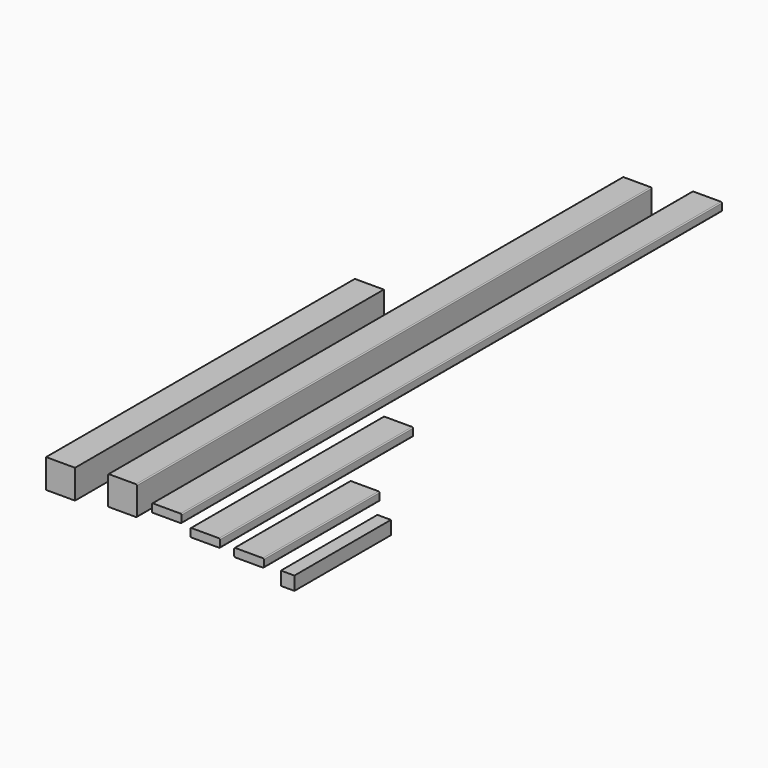
from build123d import *

# Parameters (mm, degrees)
F0_W      = 92
F0_H      = 26
F1_DEPTH  = 450
F2_R      = 3
F3_R      = 3
F4_W      = 92
F4_H      = 26
F5_DEPTH  = 750
F6_R      = 3
F7_W      = 92
F7_H      = 26
F8_DEPTH  = 2100
F9_R      = 3
F10_W     = 42
F10_H     = 42
F11_DEPTH = 375
F12_W     = 90
F12_H     = 90
F13_DEPTH = 2000
F14_R     = 3
F15_W     = 90
F15_H     = 90
F16_DEPTH = 1200


with BuildPart() as f1:
    # F0 (on Front) → F1 (new body)
    with BuildSketch(Plane.XZ):
        with Locations((-29.416444, 2.791941)):
            Rectangle(F0_W, F0_H)
    extrude(amount=-F1_DEPTH)

    # F2
    f2_edges = [f1.edges().sort_by_distance(p)[0] for p in [
        (-75.416444, 225, 15.791941),
        (-75.416444, 225, -10.208059),
    ]]
    fillet(f2_edges, radius=F2_R)

    # F3
    f3_edges = [f1.edges().sort_by_distance(p)[0] for p in [
        (16.583556, 225, 15.791941),
        (16.583556, 225, -10.208059),
    ]]
    fillet(f3_edges, radius=F3_R)


with BuildPart() as f5:
    # F4 (on Front) → F5 (new body)
    with BuildSketch(Plane.XZ):
        with Locations((-165.393431, 13)):
            Rectangle(F4_W, F4_H)
    extrude(amount=-F5_DEPTH)

    # F6
    f6_edges = [f5.edges().sort_by_distance(p)[0] for p in [
        (-211.393431, 375, 26),
        (-119.393431, 375, 26),
        (-119.393431, 375, 0),
        (-211.393431, 375, 0),
    ]]
    fillet(f6_edges, radius=F6_R)


with BuildPart() as f8:
    # F7 (on Front) → F8 (new body)
    with BuildSketch(Plane.XZ):
        with Locations((-285.127858, 41.543171)):
            Rectangle(F7_W, F7_H)
    extrude(amount=-F8_DEPTH)

    # F9
    f9_edges = [f8.edges().sort_by_distance(p)[0] for p in [
        (-331.127858, 1050, 54.543171),
        (-239.127858, 1050, 54.543171),
        (-239.127858, 1050, 28.543171),
        (-331.127858, 1050, 28.543171),
    ]]
    fillet(f9_edges, radius=F9_R)


with BuildPart() as f11:
    # F10 (on Front) → F11 (new body)
    with BuildSketch(Plane.XZ):
        with Locations((90.716598, -20.95584)):
            Rectangle(F10_W, F10_H)
    extrude(amount=-F11_DEPTH)


with BuildPart() as f13:
    # F12 (on Front) → F13 (new body)
    with BuildSketch(Plane.XZ):
        with Locations((-422.830092, 45)):
            Rectangle(F12_W, F12_H)
    extrude(amount=-F13_DEPTH)

    # F14
    f14_edges = [f13.edges().sort_by_distance(p)[0] for p in [
        (-467.830092, 1000, 90),
        (-377.830092, 1000, 90),
        (-467.830092, 1000, 0),
        (-377.830092, 1000, 0),
    ]]
    fillet(f14_edges, radius=F14_R)


with BuildPart() as f16:
    # F15 (on Front) → F16 (new body)
    with BuildSketch(Plane.XZ):
        with Locations((-615.401251, 28.234882)):
            Rectangle(F15_W, F15_H)
    extrude(amount=-F16_DEPTH)


solid = Compound([f1.part, f5.part, f8.part, f11.part, f13.part, f16.part])
